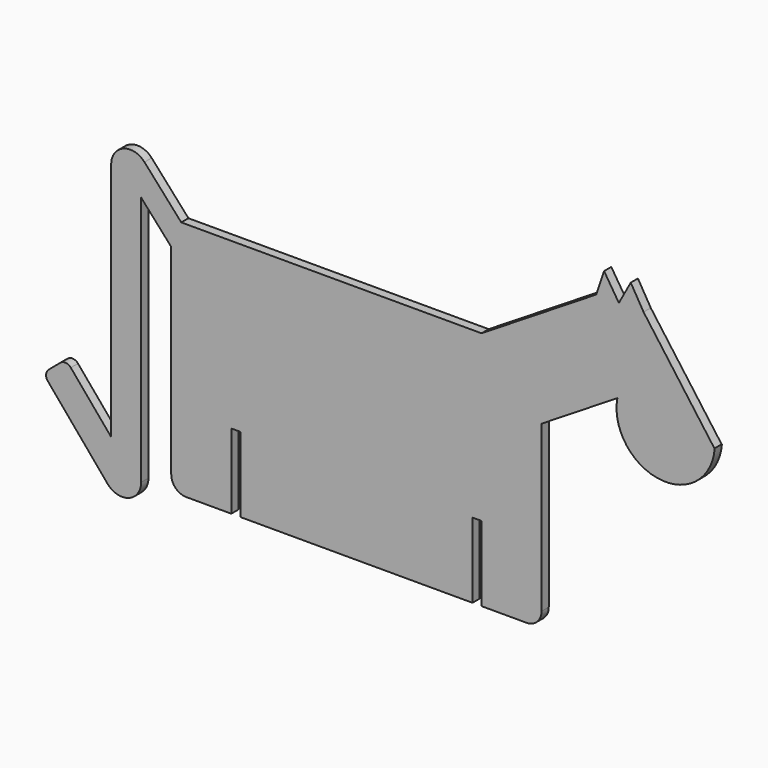
from build123d import *

# Parameters (mm, degrees)
F1_DEPTH = 3


with BuildPart() as f1:
    # F0 (on Front) → F1 (new body)
    with BuildSketch(Plane.XZ):
        with BuildLine():
            Line((-20, 0), (-5, 0))
            ThreePointArc((-5, 0), (-1.464466, 1.464466), (0, 5))
            Line((0, 5), (0, 60))
            Line((0, 60), (25.2391, 75.709675))
            ThreePointArc((25.2391, 75.709675), (39.261161, 56.50437), (57.673644, 71.552373))
            Line((57.673644, 71.552373), (57.576732, 71.481567))
            Line((57.576732, 71.481567), (33.979088, 103.779418))
            Line((33.979088, 103.779418), (29.703019, 111.034036))
            Line((29.703019, 111.034036), (25.755882, 103.779418))
            Line((25.755882, 103.779418), (20.821964, 111.527428))
            Line((20.821964, 111.527428), (18.203917, 103.779418))
            Line((18.203917, 103.779418), (-20, 80))
            Line((-20, 80), (-120, 80))
            Line((-120, 80), (-132.250323, 93.696277))
            ThreePointArc((-132.250323, 93.696277), (-139.249154, 95.394938), (-143.333333, 89.462944))
            Line((-143.333333, 89.462944), (-143.333333, 9.462944))
            Line((-143.333333, 9.462944), (-156.787529, 25.438112))
            ThreePointArc((-156.787529, 25.438112), (-158.470845, 26.310515), (-160.278011, 25.737113))
            Line((-160.278011, 25.737113), (-164.137305, 22.486838))
            ThreePointArc((-164.137305, 22.486838), (-165.009708, 20.803522), (-164.436306, 18.996356))
            Line((-164.436306, 18.996356), (-144.540306, -4.627645))
            ThreePointArc((-144.540306, -4.627645), (-137.506096, -6.502206), (-133.333333, -0.53713))
            Line((-133.333333, -0.53713), (-133.333333, 82.907007))
            Line((-133.333333, 82.907007), (-123.333333, 71.726667))
            Line((-123.333333, 71.726667), (-123.333333, 5))
            ThreePointArc((-123.333333, 5), (-121.868867, 1.464466), (-118.333333, 0))
            Line((-118.333333, 0), (-103.333333, 0))
            Line((-103.333333, 0), (-103.333333, 25))
            Line((-103.333333, 25), (-100.333333, 25))
            Line((-100.333333, 25), (-100.333333, 0))
            Line((-100.333333, 0), (-23, 0))
            Line((-23, 0), (-23, 25))
            Line((-23, 25), (-20, 25))
            Line((-20, 25), (-20, 0))
        make_face()
    extrude(amount=F1_DEPTH)


solid = f1.part
